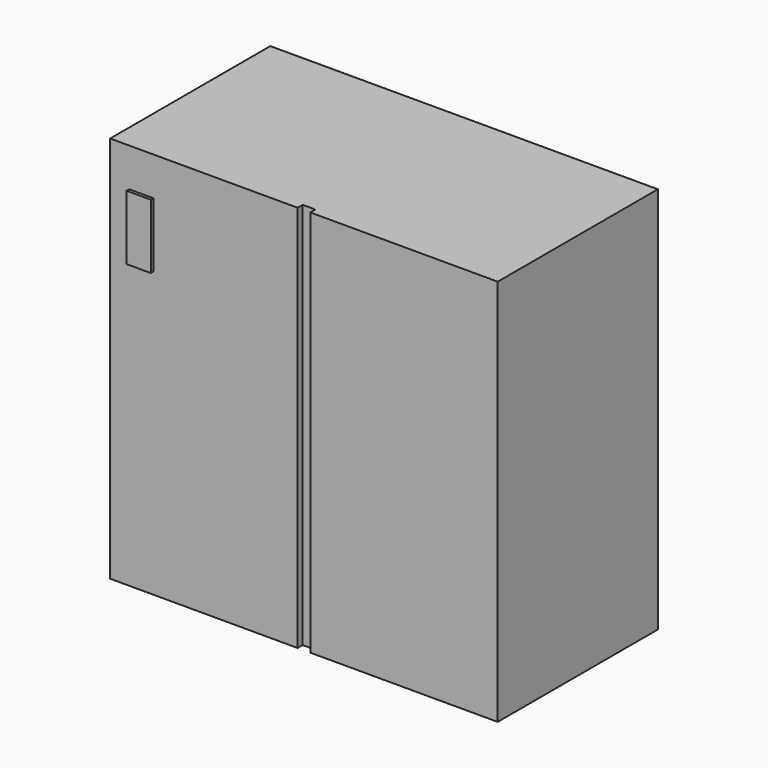
from build123d import *

# Parameters (mm, degrees)
F0_W     = 304.8
F0_H     = 152.4
F1_DEPTH = 304.8
F3_DEPTH = 5
F4_W     = 19.05
F4_H     = 50.8
F5_DEPTH = 2.5


with BuildPart() as f1:
    # F0 (on Top) → F1 (new body)
    with BuildSketch(Plane.XY):
        with Locations((-2.632114, -74.741666)):
            Rectangle(F0_W, F0_H)
    extrude(amount=F1_DEPTH)

    # F2 (on face) → F3 (join)
    with BuildSketch(Plane.XZ.offset(150.941666)):
        Polygon((-7.632114, 304.8), (-155.032114, 304.8), (-155.032114, 0), (-7.632114, 0), (-7.632114, 5), (-7.632114, 299.8), align=None)
        Polygon((149.767886, 304.8), (2.367886, 304.8), (2.367886, 299.8), (2.367886, 5), (2.367886, 0), (149.767886, 0), align=None)
    extrude(amount=F3_DEPTH)

    # F4 (on face) → F5 (join)
    with BuildSketch(Plane.XZ.offset(155.941666)):
        with Locations((-130.563368, 249.110587)):
            Rectangle(F4_W, F4_H)
    extrude(amount=F5_DEPTH)


solid = f1.part
